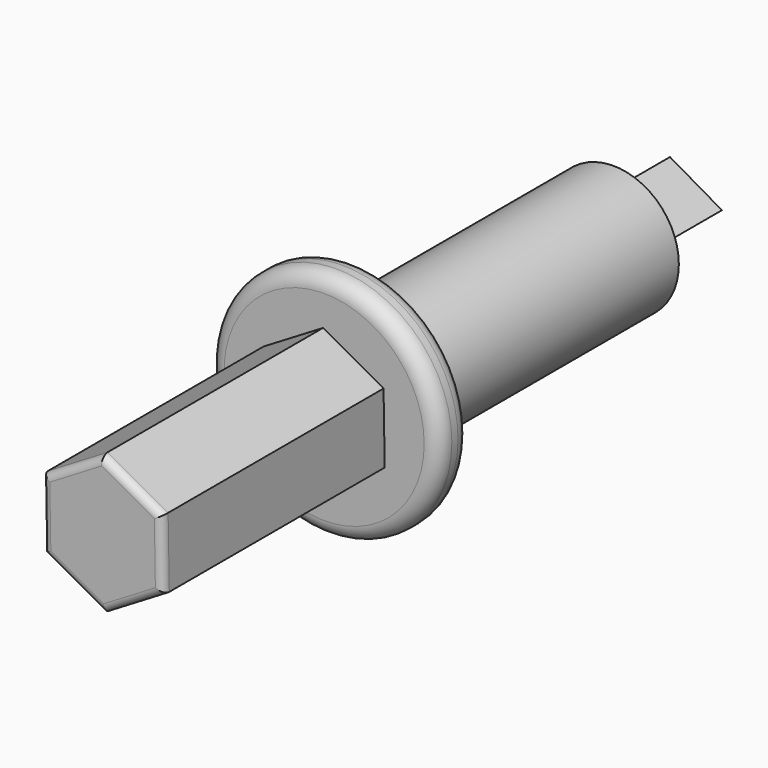
from build123d import *

# Parameters (mm, degrees)
F0_R     = 4.25
F1_DEPTH = 21
F2_DEPTH = 6
F3_R     = 7.5
F3_R_2   = 4.25
F4_DEPTH = 2.5
F6_DEPTH = 18
F7_R     = 0.5
F8_R     = 1


with BuildPart() as f1:
    # F0 (on Front) → F1 (new body)
    with BuildSketch(Plane.XZ):
        Circle(F0_R)
        Polygon((-1.125, 1.948557), (2.25, 0), (-1.125, -1.948557), align=None, mode=Mode.SUBTRACT)
        Polygon((-1.125, -1.948557), (2.25, 0), (-1.125, 1.948557), align=None)
    extrude(amount=F1_DEPTH)

    # F0 (on Front) → F2 (join)
    with BuildSketch(Plane.XZ):
        Polygon((-1.125, -1.948557), (2.25, 0), (-1.125, 1.948557), align=None)
    extrude(amount=-F2_DEPTH)

    # F3 (on face) → F4 (join)
    with BuildSketch(Plane.XZ.offset(21)):
        Circle(F3_R)
        Circle(F3_R_2, mode=Mode.SUBTRACT)
        Circle(F3_R_2)
    extrude(amount=F4_DEPTH)

    # F5 (on face) → F6 (join)
    with BuildSketch(Plane.XZ.offset(23.5)):
        Polygon((0.076423, -4.499351), (3.934764, -2.183492), (3.858341, 2.315859), (-0.076423, 4.499351), (-3.934764, 2.183492), (-3.858341, -2.315859), align=None)
    extrude(amount=F6_DEPTH)

    # F7
    f7_edges = [f1.edges().sort_by_distance(p)[0] for p in [
        (2.005593, -41.5, -3.341421),
        (-1.890959, -41.5, -3.407605),
        (-3.896552, -41.5, -0.066184),
        (-2.005593, -41.5, 3.341421),
        (1.890959, -41.5, 3.407605),
        (3.896552, -41.5, 0.066184),
    ]]
    fillet(f7_edges, radius=F7_R)

    # F8
    f8_edges = [f1.edges().sort_by_distance(p)[0] for p in [
        (-7.5, -23.5, 0),
        (-7.5, -21, 0),
    ]]
    fillet(f8_edges, radius=F8_R)


solid = f1.part
